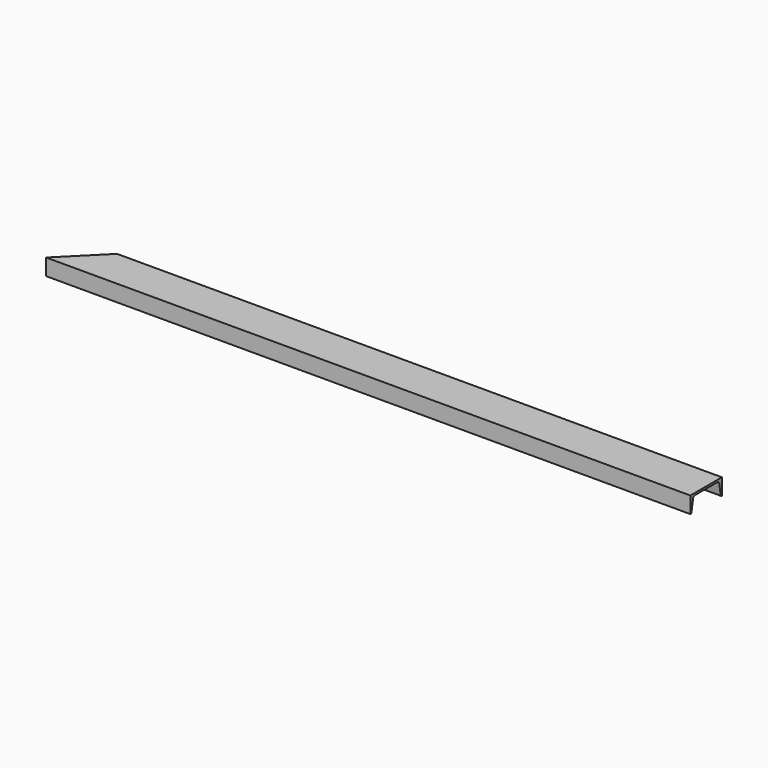
from build123d import *

# Parameters (mm, degrees)
F1_DEPTH = 2489.2
F3_DEPTH = 63.4248


with BuildPart() as f1:
    # F0 (on Right) → F1 (new body)
    with BuildSketch(Plane.YZ):
        with BuildLine():
            Line((76.2, 0), (-76.2, 0))
            Line((-76.2, 0), (-76.2, -63.4238))
            ThreePointArc((-76.2, -63.4238), (-72.574321, -62.102069), (-70.649887, -58.757061))
            Line((-70.649887, -58.757061), (-63.124886, -15.566335))
            ThreePointArc((-63.124886, -15.566335), (-59.952782, -10.052651), (-53.976459, -7.874))
            Line((-53.976459, -7.874), (53.976459, -7.874))
            ThreePointArc((53.976459, -7.874), (59.952782, -10.052651), (63.124886, -15.566335))
            Line((63.124886, -15.566335), (70.649887, -58.757061))
            ThreePointArc((70.649887, -58.757061), (72.574321, -62.102069), (76.2, -63.4238))
            Line((76.2, -63.4238), (76.2, 0))
        make_face()
    extrude(amount=F1_DEPTH)

    # F2 (on face) → F3 (cut, through all)
    with BuildSketch(Plane.XY):
        Polygon((0, 76.2), (0, -76.2), (152.4, 76.2), align=None)
    extrude(amount=-F3_DEPTH, mode=Mode.SUBTRACT)


solid = f1.part
